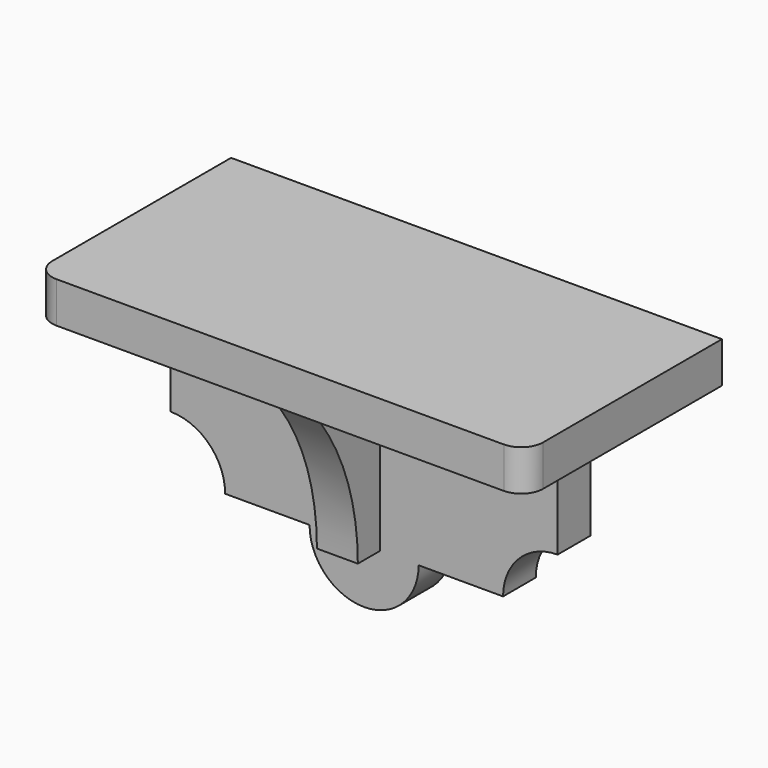
from build123d import *

# Parameters (mm, degrees)
F0_W     = 114.3
F0_H     = 57.15
F1_DEPTH = 9.525
F2_R     = 5.08
F4_DEPTH = 9.525
F6_DEPTH = 9.525


with BuildPart() as f1:
    # F0 (on Top) → F1 (new body)
    with BuildSketch(Plane.XY):
        with Locations((-3.538748, -5.563198)):
            Rectangle(F0_W, F0_H)
    extrude(amount=F1_DEPTH)

    # F2
    f2_edges = [f1.edges().sort_by_distance(p)[0] for p in [
        (-60.688748, -34.138198, 4.7625),
        (53.611252, -34.138198, 4.7625),
    ]]
    fillet(f2_edges, radius=F2_R)

    # F3 (on Front) → F4 (join)
    with BuildSketch(Plane.XZ):
        with BuildLine():
            Line((41.378355, 0), (-48.737979, 0))
            Line((-48.737979, 0), (-48.737979, -25.4))
            ThreePointArc((-48.737979, -25.4), (-39.757723, -29.119744), (-36.037979, -38.1))
            Line((-36.037979, -38.1), (-16.379812, -38.1))
            ThreePointArc((-16.379812, -38.1), (-3.679812, -50.8), (9.020188, -38.1))
            Line((9.020188, -38.1), (28.678355, -38.1))
            ThreePointArc((28.678355, -38.1), (32.398099, -29.119744), (41.378355, -25.4))
            Line((41.378355, -25.4), (41.378355, 0))
        make_face()
    extrude(amount=F4_DEPTH)

    # F5 (on Right) → F6 (join)
    with BuildSketch(Plane.YZ):
        with BuildLine():
            Line((-9.288505, -38.1), (-9.288505, 0))
            Line((-9.288505, 0), (-29.608505, 0))
            Line((-29.608505, 0), (-29.608505, -1.29146))
            ThreePointArc((-29.608505, -1.29146), (-19.493946, -18.477158), (-15.944775, -38.1))
            Line((-15.944775, -38.1), (-9.288505, -38.1))
        make_face()
    extrude(amount=-F6_DEPTH)


solid = f1.part
